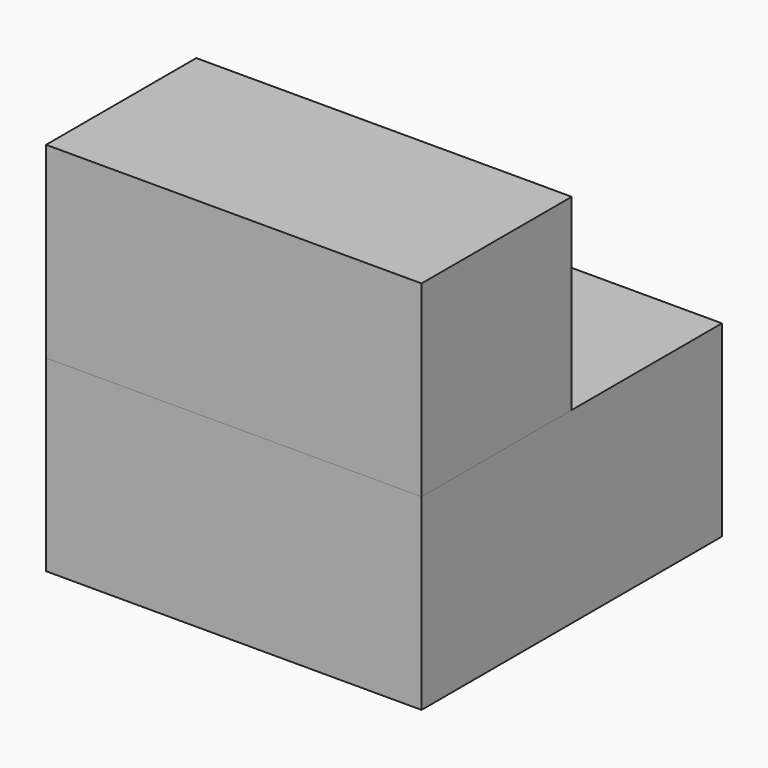
from build123d import *

# Parameters (mm, degrees)
F0_W     = 25.4
F0_H     = 25.4
F1_DEPTH = 50.8
F2_DEPTH = 25.4


with BuildPart() as f1:
    # F0 (on Front) → F1 (new body)
    with BuildSketch(Plane.XZ):
        with Locations((-12.7, 12.7)):
            Rectangle(F0_W, F0_H)
        with Locations((12.7, 12.7)):
            Rectangle(F0_W, F0_H)
    extrude(amount=-F1_DEPTH)


with BuildPart() as f2:
    # F0 (on Front) → F2 (new body)
    with BuildSketch(Plane.XZ):
        with Locations((-12.7, 38.1)):
            Rectangle(F0_W, F0_H)
        with Locations((12.7, 38.1)):
            Rectangle(F0_W, F0_H)
    extrude(amount=-F2_DEPTH)


solid = Compound([f1.part, f2.part])
